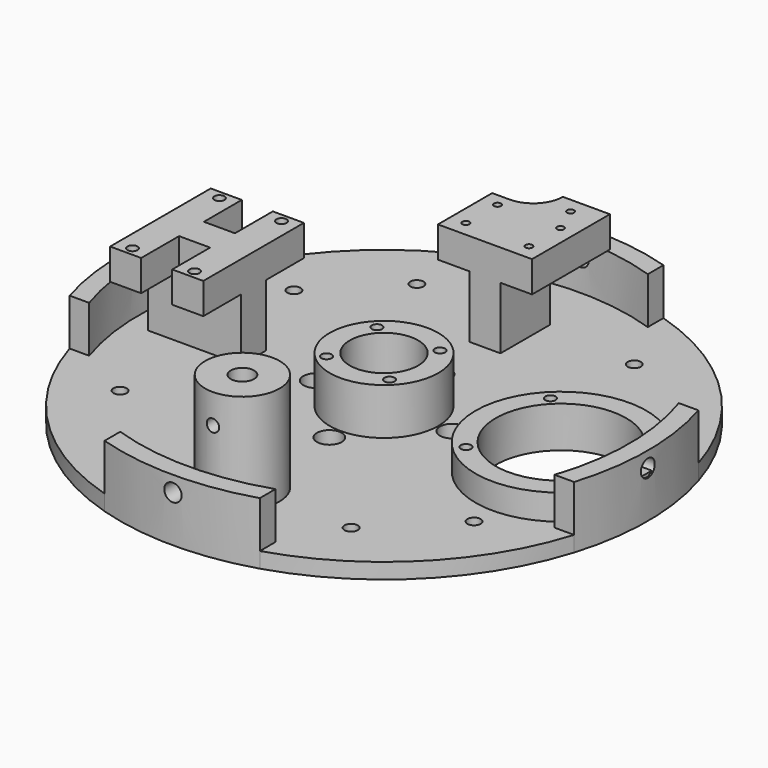
from build123d import *

# Parameters (mm, degrees)
SKETCH005_R       = 85
SKETCH005_R_2     = 2.13
SKETCH005_R_3     = 4
SKETCH005_R_4     = 4.5
SKETCH005_R_5     = 21
EXTRUDE005_DEPTH  = 5
SKETCH007_R       = 2
EXTRUDE007_DEPTH  = 50
CYLINDER100_R     = 3.75
CYLINDER100_DEPTH = 75
CYLINDER101_R     = 4.5
CYLINDER101_DEPTH = 60
CYLINDER099_R     = 12
CYLINDER099_DEPTH = 32
SKETCH006_R       = 17.5
SKETCH006_R_2     = 1.65
SKETCH006_R_3     = 11
EXTRUDE006_DEPTH  = 15
SKETCH002_R       = 1.625
EXTRUDE002_DEPTH  = 10
BOX007_W          = 30
BOX007_H          = 10
BOX007_DEPTH      = 20
SKETCH003_R       = 27.5
SKETCH003_R_2     = 1.65
SKETCH003_R_3     = 21
EXTRUDE003_DEPTH  = 8.25
SKETCH004_R       = 1.125
EXTRUDE004_DEPTH  = 10
BOX008_W          = 10
BOX008_H          = 20
BOX008_DEPTH      = 25
CYLINDER121_R     = 2.8
CYLINDER121_DEPTH = 300
CYLINDER122_R     = 2.8
CYLINDER122_DEPTH = 300
EXTRUDE010_DEPTH  = 20


with BuildPart() as level1:
    # Sketch005 → Extrude005 (new body)
    with BuildSketch(Plane.XY):
        with Locations((0, -150)):
            Circle(SKETCH005_R)
        with Locations((-57, -115)):
            Circle(SKETCH005_R_2, mode=Mode.SUBTRACT)
        with Locations((-22, -150)):
            Circle(SKETCH005_R_3, mode=Mode.SUBTRACT)
        with Locations((-57, -185)):
            Circle(SKETCH005_R_2, mode=Mode.SUBTRACT)
        with Locations((0, -172)):
            Circle(SKETCH005_R_3, mode=Mode.SUBTRACT)
        with Locations((-35, -207)):
            Circle(SKETCH005_R_2, mode=Mode.SUBTRACT)
        with Locations((35, -207)):
            Circle(SKETCH005_R_2, mode=Mode.SUBTRACT)
        with Locations((57, -185)):
            Circle(SKETCH005_R_2, mode=Mode.SUBTRACT)
        with Locations((22, -150)):
            Circle(SKETCH005_R_3, mode=Mode.SUBTRACT)
        with Locations((57, -115)):
            Circle(SKETCH005_R_2, mode=Mode.SUBTRACT)
        with Locations((0, -207)):
            Circle(SKETCH005_R_4, mode=Mode.SUBTRACT)
        with Locations((57, -150)):
            Circle(SKETCH005_R_5, mode=Mode.SUBTRACT)
        with Locations((-35, -93)):
            Circle(SKETCH005_R_2, mode=Mode.SUBTRACT)
        with Locations((35, -93)):
            Circle(SKETCH005_R_2, mode=Mode.SUBTRACT)
        with Locations((0, -128)):
            Circle(SKETCH005_R_3, mode=Mode.SUBTRACT)
    extrude(amount=EXTRUDE005_DEPTH)


with BuildPart() as level1_1:
    # Extrude005 placement: moved
    add(level1.part.moved(Location((0, 0, 75))))


with BuildPart() as m3heatsetinsertcut:
    # Sketch007 → Extrude007 (new body)
    with BuildSketch(Plane.XZ):
        with Locations((0, 102.5)):
            Circle(SKETCH007_R)
    extrude(amount=EXTRUDE007_DEPTH)


with BuildPart() as m3heatsetinsertcut_1:
    # Extrude007 placement: moved
    add(m3heatsetinsertcut.part.moved(Location((0, -183.25, 0))))


with BuildPart() as refmodules001:
    # Cylinder100 → Cylinder100 (new body)
    with BuildSketch(Plane(origin=(0, -207, 37), x_dir=(1, 0, 0), z_dir=(0, 0, 1))):
        Circle(CYLINDER100_R)
    extrude(amount=CYLINDER100_DEPTH)


with BuildPart() as refmodule001cut:
    # Cylinder101 → Cylinder101 (new body)
    with BuildSketch(Plane(origin=(0, -207, 37), x_dir=(1, 0, 0), z_dir=(0, 0, 1))):
        Circle(CYLINDER101_R)
    extrude(amount=CYLINDER101_DEPTH)

    # Fusion052: union refModules001
    add(refmodules001.part)


with BuildPart() as obj1:
    # Cylinder099 → Cylinder099 (new body)
    with BuildSketch(Plane(origin=(0, -207, 80), x_dir=(1, 0, 0), z_dir=(0, 0, 1))):
        Circle(CYLINDER099_R)
    extrude(amount=CYLINDER099_DEPTH)

    # Cut019: cut refModule001Cut
    add(refmodule001cut.part, mode=Mode.SUBTRACT)

    # Cut020: cut m3HeatSetInsertCut
    add(m3heatsetinsertcut_1.part, mode=Mode.SUBTRACT)


with BuildPart() as gpsholder:
    # Sketch006 → Extrude006 (new body)
    with BuildSketch(Plane.XY):
        with Locations((0, -150)):
            Circle(SKETCH006_R)
        with Locations((-10.15, -140.15)):
            Circle(SKETCH006_R_2, mode=Mode.SUBTRACT)
        with Locations((10.15, -140.15)):
            Circle(SKETCH006_R_2, mode=Mode.SUBTRACT)
        with Locations((10.15, -160.45)):
            Circle(SKETCH006_R_2, mode=Mode.SUBTRACT)
        with Locations((-10.15, -160.45)):
            Circle(SKETCH006_R_2, mode=Mode.SUBTRACT)
        with Locations((0, -150)):
            Circle(SKETCH006_R_3, mode=Mode.SUBTRACT)
    extrude(amount=EXTRUDE006_DEPTH)


with BuildPart() as gpsholder_1:
    # Extrude006 placement: moved
    add(gpsholder.part.moved(Location((0, 0, 80))))


with BuildPart() as as7265holder:
    # Sketch002 → Extrude002 (new body)
    with BuildSketch(Plane.XY):
        Polygon((-62, -129.75), (-72, -129.75), (-72, -170.25), (-62, -170.25), (-62, -155), (-52, -155), (-52, -170.25), (-42, -170.25), (-42, -129.75), (-52, -129.75), (-52, -145), (-62, -145), align=None)
        with Locations((-67, -167.5)):
            Circle(SKETCH002_R, mode=Mode.SUBTRACT)
        with Locations((-47, -167.5)):
            Circle(SKETCH002_R, mode=Mode.SUBTRACT)
        with Locations((-67, -132.5)):
            Circle(SKETCH002_R, mode=Mode.SUBTRACT)
        with Locations((-47, -132.5)):
            Circle(SKETCH002_R, mode=Mode.SUBTRACT)
    extrude(amount=EXTRUDE002_DEPTH)


with BuildPart() as as7265holder_1:
    # Extrude002 placement: moved
    add(as7265holder.part.moved(Location((0, 0, 100))))


with BuildPart() as as7265holder001:
    # Box007 → Box007 (new body)
    with BuildSketch(Plane(origin=(-72, -155, 80), x_dir=(1, 0, 0), z_dir=(0, 0, 1))):
        with Locations((15, 5)):
            Rectangle(BOX007_W, BOX007_H)
    extrude(amount=BOX007_DEPTH)

    # Fusion049: union as7265Holder
    add(as7265holder_1.part)


with BuildPart() as cameraholder:
    # Sketch003 → Extrude003 (new body)
    with BuildSketch(Plane.XY):
        with Locations((57, -150)):
            Circle(SKETCH003_R)
        with Locations((74, -167)):
            Circle(SKETCH003_R_2, mode=Mode.SUBTRACT)
        with Locations((40, -167)):
            Circle(SKETCH003_R_2, mode=Mode.SUBTRACT)
        with Locations((40, -133)):
            Circle(SKETCH003_R_2, mode=Mode.SUBTRACT)
        with Locations((74, -133)):
            Circle(SKETCH003_R_2, mode=Mode.SUBTRACT)
        with Locations((57, -150)):
            Circle(SKETCH003_R_3, mode=Mode.SUBTRACT)
    extrude(amount=EXTRUDE003_DEPTH)


with BuildPart() as cameraholder_1:
    # Extrude003 placement: moved
    add(cameraholder.part.moved(Location((0, 0, 80))))


with BuildPart() as obj2:
    # Sketch004 → Extrude004 (new body)
    with BuildSketch(Plane.XY):
        with BuildLine():
            ThreePointArc((-9.5, -87.5), (-2.782486, -84.717514), (0, -78))
            Line((15.15, -78), (0, -78))
            Line((15.15, -109.35), (15.15, -78))
            Line((-15.15, -109.35), (15.15, -109.35))
            Line((-15.15, -87.5), (-15.15, -109.35))
            Line((-9.5, -87.5), (-15.15, -87.5))
        make_face()
        with Locations((6.5, -83)):
            Circle(SKETCH004_R, mode=Mode.SUBTRACT)
        with Locations((10.15, -91.65)):
            Circle(SKETCH004_R, mode=Mode.SUBTRACT)
        with Locations((10.15, -104.35)):
            Circle(SKETCH004_R, mode=Mode.SUBTRACT)
        with Locations((-10.15, -104.35)):
            Circle(SKETCH004_R, mode=Mode.SUBTRACT)
        with Locations((-10.15, -91.65)):
            Circle(SKETCH004_R, mode=Mode.SUBTRACT)
    extrude(amount=EXTRUDE004_DEPTH)


with BuildPart() as obj2_1:
    # Extrude004 placement: moved
    add(obj2.part.moved(Location((0, 0, 100))))


with BuildPart() as level001x:
    # Box008 → Box008 (new body)
    with BuildSketch(Plane(origin=(-5, -109.35, 75), x_dir=(1, 0, 0), z_dir=(0, 0, 1))):
        with Locations((5, 10)):
            Rectangle(BOX008_W, BOX008_H)
    extrude(amount=BOX008_DEPTH)

    # Fusion050: union obj2
    add(obj2_1.part)

    # Fusion053: union obj1, gpsHolder, as7265Holder001, cameraHolder
    add(obj1.part)
    add(gpsholder_1.part)
    add(as7265holder001.part)
    add(cameraholder_1.part)

    # Fusion054: union level1
    add(level1_1.part)


with BuildPart() as cylinder121:
    # Cylinder121 → Cylinder121 (new body)
    with BuildSketch(Plane(origin=(0, 0, 90), x_dir=(1, 0, 0), z_dir=(0, -1, 0))):
        Circle(CYLINDER121_R)
    extrude(amount=CYLINDER121_DEPTH)


with BuildPart() as m4cuts002:
    # Cylinder122 → Cylinder122 (new body)
    with BuildSketch(Plane(origin=(-150, -150, 90), x_dir=(0, 1, 0), z_dir=(1, 0, 0))):
        Circle(CYLINDER122_R)
    extrude(amount=CYLINDER122_DEPTH)

    # Fusion068: union Cylinder121
    add(cylinder121.part)


with BuildPart() as level001:
    # Sketch028 → Extrude010 (new body)
    with BuildSketch(Plane.XY):
        with BuildLine():
            ThreePointArc((-81.240384, -125), (-85, -150), (-81.240384, -175))
            Line((-81.240384, -175), (-74.939976, -175))
            ThreePointArc((-74.939976, -125), (-79, -150), (-74.939976, -175))
            Line((-81.240384, -125), (-74.939976, -125))
        make_face()
        with BuildLine():
            ThreePointArc((25, -68.759616), (0, -65), (-25, -68.759616))
            Line((-25, -68.759616), (-25, -75.060024))
            ThreePointArc((25, -75.060024), (0, -71), (-25, -75.060024))
            Line((25, -68.759616), (25, -75.060024))
        make_face()
        with BuildLine():
            ThreePointArc((81.240384, -175), (85, -150), (81.240384, -125))
            Line((81.240384, -125), (74.939976, -125))
            ThreePointArc((74.939976, -175), (79, -150), (74.939976, -125))
            Line((81.240384, -175), (74.939976, -175))
        make_face()
        with BuildLine():
            ThreePointArc((-25, -231.240384), (0, -235), (25, -231.240384))
            Line((25, -231.240384), (25, -224.939976))
            ThreePointArc((-25, -224.939976), (0, -229), (25, -224.939976))
            Line((-25, -231.240384), (-25, -224.939976))
        make_face()
    extrude(amount=EXTRUDE010_DEPTH)


with BuildPart() as level001_1:
    # Extrude010 placement: moved
    add(level001.part.moved(Location((0, 0, 75))))

    # Cut032: cut m4Cuts002
    add(m4cuts002.part, mode=Mode.SUBTRACT)

    # Fusion069: union level001x
    add(level001x.part)


solid = level001_1.part
